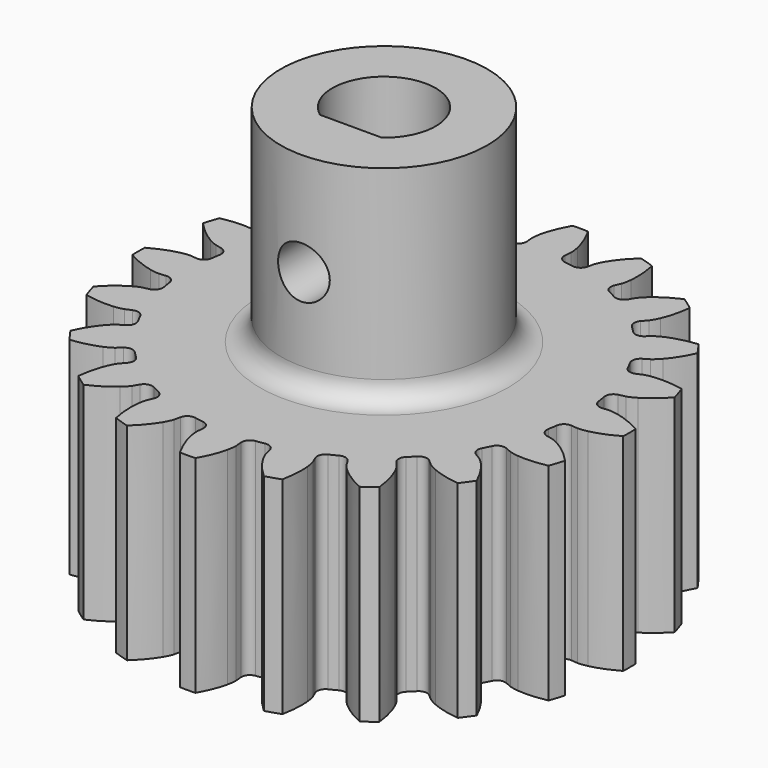
from build123d import *

# Parameters (mm, degrees)
PAD_DEPTH         = 10
SKETCH_R          = 5
PAD001_DEPTH      = 10
POCKET_DEPTH      = 10.001
POCKET_DEPTH_BACK = 10.001
SKETCH002_R       = 1.25
POCKET001_DEPTH   = 11.882183
SKETCH003_R       = 1.25
POCKET002_DEPTH   = 11.882183
FILLET_R          = 1


with BuildPart() as part:
    # InvoluteGear → Pad (new body)
    with BuildSketch(Plane.XY):
        with BuildLine():
            Line((9.803716, -0.918776), (10.123763, -0.947956))
            add(Edge.make_bspline(
                [(10.123763, -0.947956), (10.174775, -0.949586), (10.328324, -0.948261), (10.584514, -0.892793)],
                knots=[0, 0, 0, 0, 1, 1, 1, 1], degree=3))
            add(Edge.make_bspline(
                [(10.584514, -0.892793), (10.890973, -0.82542), (11.331989, -0.681194), (11.875271, -0.374725)],
                knots=[0, 0, 0, 0, 1, 1, 1, 1], degree=3))
            ThreePointArc((11.875271, -0.374725), (11.881183, 0), (11.875271, 0.374725))
            add(Edge.make_bspline(
                [(11.875271, 0.374725), (11.331989, 0.681194), (10.890973, 0.82542), (10.584514, 0.892793)],
                knots=[0, 0, 0, 0, 1, 1, 1, 1], degree=3))
            add(Edge.make_bspline(
                [(10.584514, 0.892793), (10.328324, 0.948261), (10.174775, 0.949586), (10.123763, 0.947956)],
                knots=[0, 0, 0, 0, 1, 1, 1, 1], degree=3))
            Line((10.123763, 0.947956), (9.803716, 0.918776))
            ThreePointArc((9.803716, 0.918776), (9.514111, 1.004812), (9.364631, 1.267355))
            ThreePointArc((9.364631, 1.267355), (9.333655, 1.478306), (9.297927, 1.688504))
            ThreePointArc((9.297927, 1.688504), (9.358961, 1.984389), (9.607806, 2.155707))
            Line((9.607806, 2.155707), (9.921205, 2.226855))
            add(Edge.make_bspline(
                [(9.921205, 2.226855), (9.970225, 2.241068), (10.115849, 2.289777), (10.342359, 2.421698)],
                knots=[0, 0, 0, 0, 1, 1, 1, 1], degree=3))
            add(Edge.make_bspline(
                [(10.342359, 2.421698), (10.613, 2.580475), (10.987862, 2.853923), (11.40985, 3.313276)],
                knots=[0, 0, 0, 0, 1, 1, 1, 1], degree=3))
            ThreePointArc((11.40985, 3.313276), (11.299676, 3.671487), (11.178258, 4.026045))
            add(Edge.make_bspline(
                [(11.178258, 4.026045), (10.566861, 4.149631), (10.102862, 4.150517), (9.790583, 4.119891)],
                knots=[0, 0, 0, 0, 1, 1, 1, 1], degree=3))
            add(Edge.make_bspline(
                [(9.790583, 4.119891), (9.529791, 4.093478), (9.383348, 4.047289), (9.335336, 4.029975)],
                knots=[0, 0, 0, 0, 1, 1, 1, 1], degree=3))
            Line((9.335336, 4.029975), (9.039971, 3.903323))
            ThreePointArc((9.039971, 3.903323), (8.737953, 3.895655), (8.514659, 4.099157))
            ThreePointArc((8.514659, 4.099157), (8.420012, 4.29021), (8.321078, 4.47908))
            ThreePointArc((8.321078, 4.47908), (8.287691, 4.779344), (8.471416, 5.019174))
            Line((8.471416, 5.019174), (8.747491, 5.183686))
            add(Edge.make_bspline(
                [(8.747491, 5.183686), (8.789719, 5.212351), (8.913164, 5.303677), (9.087822, 5.499137)],
                knots=[0, 0, 0, 0, 1, 1, 1, 1], degree=3))
            add(Edge.make_bspline(
                [(9.087822, 5.499137), (9.296152, 5.733775), (9.568167, 6.109679), (9.827554, 6.67695)],
                knots=[0, 0, 0, 0, 1, 1, 1, 1], degree=3))
            ThreePointArc((9.827554, 6.67695), (9.612079, 6.983584), (9.387038, 7.283268))
            add(Edge.make_bspline(
                [(9.387038, 7.283268), (8.767376, 7.211873), (8.325813, 7.069332), (8.038281, 6.943706)],
                knots=[0, 0, 0, 0, 1, 1, 1, 1], degree=3))
            add(Edge.make_bspline(
                [(8.038281, 6.943706), (7.798416, 6.837996), (7.673413, 6.748814), (7.633102, 6.717511)],
                knots=[0, 0, 0, 0, 1, 1, 1, 1], degree=3))
            Line((7.633102, 6.717511), (7.39133, 6.505785))
            ThreePointArc((7.39133, 6.505785), (7.106464, 6.405164), (6.831213, 6.529704))
            ThreePointArc((6.831213, 6.529704), (6.682159, 6.682159), (6.529704, 6.831213))
            ThreePointArc((6.529704, 6.831213), (6.405164, 7.106464), (6.505785, 7.39133))
            Line((6.505785, 7.39133), (6.717511, 7.633102))
            add(Edge.make_bspline(
                [(6.717511, 7.633102), (6.748814, 7.673413), (6.837996, 7.798416), (6.943706, 8.038281)],
                knots=[0, 0, 0, 0, 1, 1, 1, 1], degree=3))
            add(Edge.make_bspline(
                [(6.943706, 8.038281), (7.069332, 8.325813), (7.211873, 8.767376), (7.283268, 9.387038)],
                knots=[0, 0, 0, 0, 1, 1, 1, 1], degree=3))
            ThreePointArc((7.283268, 9.387038), (6.983584, 9.612079), (6.67695, 9.827554))
            add(Edge.make_bspline(
                [(6.67695, 9.827554), (6.109679, 9.568167), (5.733775, 9.296152), (5.499137, 9.087822)],
                knots=[0, 0, 0, 0, 1, 1, 1, 1], degree=3))
            add(Edge.make_bspline(
                [(5.499137, 9.087822), (5.303677, 8.913164), (5.212351, 8.789719), (5.183686, 8.747491)],
                knots=[0, 0, 0, 0, 1, 1, 1, 1], degree=3))
            Line((5.183686, 8.747491), (5.019174, 8.471416))
            ThreePointArc((5.019174, 8.471416), (4.779344, 8.287691), (4.47908, 8.321078))
            ThreePointArc((4.47908, 8.321078), (4.29021, 8.420012), (4.099157, 8.514659))
            ThreePointArc((4.099157, 8.514659), (3.895655, 8.737953), (3.903323, 9.039971))
            Line((3.903323, 9.039971), (4.029975, 9.335336))
            add(Edge.make_bspline(
                [(4.029975, 9.335336), (4.047289, 9.383348), (4.093478, 9.529791), (4.119891, 9.790583)],
                knots=[0, 0, 0, 0, 1, 1, 1, 1], degree=3))
            add(Edge.make_bspline(
                [(4.119891, 9.790583), (4.150517, 10.102862), (4.149631, 10.566861), (4.026045, 11.178258)],
                knots=[0, 0, 0, 0, 1, 1, 1, 1], degree=3))
            ThreePointArc((4.026045, 11.178258), (3.671487, 11.299676), (3.313276, 11.40985))
            add(Edge.make_bspline(
                [(3.313276, 11.40985), (2.853923, 10.987862), (2.580475, 10.613), (2.421698, 10.342359)],
                knots=[0, 0, 0, 0, 1, 1, 1, 1], degree=3))
            add(Edge.make_bspline(
                [(2.421698, 10.342359), (2.289777, 10.115849), (2.241068, 9.970225), (2.226855, 9.921205)],
                knots=[0, 0, 0, 0, 1, 1, 1, 1], degree=3))
            Line((2.226855, 9.921205), (2.155707, 9.607806))
            ThreePointArc((2.155707, 9.607806), (1.984389, 9.358961), (1.688504, 9.297927))
            ThreePointArc((1.688504, 9.297927), (1.478306, 9.333655), (1.267355, 9.364631))
            ThreePointArc((1.267355, 9.364631), (1.004812, 9.514111), (0.918776, 9.803716))
            Line((0.918776, 9.803716), (0.947956, 10.123763))
            add(Edge.make_bspline(
                [(0.947956, 10.123763), (0.949586, 10.174775), (0.948261, 10.328324), (0.892793, 10.584514)],
                knots=[0, 0, 0, 0, 1, 1, 1, 1], degree=3))
            add(Edge.make_bspline(
                [(0.892793, 10.584514), (0.82542, 10.890973), (0.681194, 11.331989), (0.374725, 11.875271)],
                knots=[0, 0, 0, 0, 1, 1, 1, 1], degree=3))
            ThreePointArc((0.374725, 11.875271), (0, 11.881183), (-0.374725, 11.875271))
            add(Edge.make_bspline(
                [(-0.374725, 11.875271), (-0.681194, 11.331989), (-0.82542, 10.890973), (-0.892793, 10.584514)],
                knots=[0, 0, 0, 0, 1, 1, 1, 1], degree=3))
            add(Edge.make_bspline(
                [(-0.892793, 10.584514), (-0.948261, 10.328324), (-0.949586, 10.174775), (-0.947956, 10.123763)],
                knots=[0, 0, 0, 0, 1, 1, 1, 1], degree=3))
            Line((-0.947956, 10.123763), (-0.918776, 9.803716))
            ThreePointArc((-0.918776, 9.803716), (-1.004812, 9.514111), (-1.267355, 9.364631))
            ThreePointArc((-1.267355, 9.364631), (-1.478306, 9.333655), (-1.688504, 9.297927))
            ThreePointArc((-1.688504, 9.297927), (-1.984389, 9.358961), (-2.155707, 9.607806))
            Line((-2.155707, 9.607806), (-2.226855, 9.921205))
            add(Edge.make_bspline(
                [(-2.226855, 9.921205), (-2.241068, 9.970225), (-2.289777, 10.115849), (-2.421698, 10.342359)],
                knots=[0, 0, 0, 0, 1, 1, 1, 1], degree=3))
            add(Edge.make_bspline(
                [(-2.421698, 10.342359), (-2.580475, 10.613), (-2.853923, 10.987862), (-3.313276, 11.40985)],
                knots=[0, 0, 0, 0, 1, 1, 1, 1], degree=3))
            ThreePointArc((-3.313276, 11.40985), (-3.671487, 11.299676), (-4.026045, 11.178258))
            add(Edge.make_bspline(
                [(-4.026045, 11.178258), (-4.149631, 10.566861), (-4.150517, 10.102862), (-4.119891, 9.790583)],
                knots=[0, 0, 0, 0, 1, 1, 1, 1], degree=3))
            add(Edge.make_bspline(
                [(-4.119891, 9.790583), (-4.093478, 9.529791), (-4.047289, 9.383348), (-4.029975, 9.335336)],
                knots=[0, 0, 0, 0, 1, 1, 1, 1], degree=3))
            Line((-4.029975, 9.335336), (-3.903323, 9.039971))
            ThreePointArc((-3.903323, 9.039971), (-3.895655, 8.737953), (-4.099157, 8.514659))
            ThreePointArc((-4.099157, 8.514659), (-4.29021, 8.420012), (-4.47908, 8.321078))
            ThreePointArc((-4.47908, 8.321078), (-4.779344, 8.287691), (-5.019174, 8.471416))
            Line((-5.019174, 8.471416), (-5.183686, 8.747491))
            add(Edge.make_bspline(
                [(-5.183686, 8.747491), (-5.212351, 8.789719), (-5.303677, 8.913164), (-5.499137, 9.087822)],
                knots=[0, 0, 0, 0, 1, 1, 1, 1], degree=3))
            add(Edge.make_bspline(
                [(-5.499137, 9.087822), (-5.733775, 9.296152), (-6.109679, 9.568167), (-6.67695, 9.827554)],
                knots=[0, 0, 0, 0, 1, 1, 1, 1], degree=3))
            ThreePointArc((-6.67695, 9.827554), (-6.983584, 9.612079), (-7.283268, 9.387038))
            add(Edge.make_bspline(
                [(-7.283268, 9.387038), (-7.211873, 8.767376), (-7.069332, 8.325813), (-6.943706, 8.038281)],
                knots=[0, 0, 0, 0, 1, 1, 1, 1], degree=3))
            add(Edge.make_bspline(
                [(-6.943706, 8.038281), (-6.837996, 7.798416), (-6.748814, 7.673413), (-6.717511, 7.633102)],
                knots=[0, 0, 0, 0, 1, 1, 1, 1], degree=3))
            Line((-6.717511, 7.633102), (-6.505785, 7.39133))
            ThreePointArc((-6.505785, 7.39133), (-6.405164, 7.106464), (-6.529704, 6.831213))
            ThreePointArc((-6.529704, 6.831213), (-6.682159, 6.682159), (-6.831213, 6.529704))
            ThreePointArc((-6.831213, 6.529704), (-7.106464, 6.405164), (-7.39133, 6.505785))
            Line((-7.39133, 6.505785), (-7.633102, 6.717511))
            add(Edge.make_bspline(
                [(-7.633102, 6.717511), (-7.673413, 6.748814), (-7.798416, 6.837996), (-8.038281, 6.943706)],
                knots=[0, 0, 0, 0, 1, 1, 1, 1], degree=3))
            add(Edge.make_bspline(
                [(-8.038281, 6.943706), (-8.325813, 7.069332), (-8.767376, 7.211873), (-9.387038, 7.283268)],
                knots=[0, 0, 0, 0, 1, 1, 1, 1], degree=3))
            ThreePointArc((-9.387038, 7.283268), (-9.612079, 6.983584), (-9.827554, 6.67695))
            add(Edge.make_bspline(
                [(-9.827554, 6.67695), (-9.568167, 6.109679), (-9.296152, 5.733775), (-9.087822, 5.499137)],
                knots=[0, 0, 0, 0, 1, 1, 1, 1], degree=3))
            add(Edge.make_bspline(
                [(-9.087822, 5.499137), (-8.913164, 5.303677), (-8.789719, 5.212351), (-8.747491, 5.183686)],
                knots=[0, 0, 0, 0, 1, 1, 1, 1], degree=3))
            Line((-8.747491, 5.183686), (-8.471416, 5.019174))
            ThreePointArc((-8.471416, 5.019174), (-8.287691, 4.779344), (-8.321078, 4.47908))
            ThreePointArc((-8.321078, 4.47908), (-8.420012, 4.29021), (-8.514659, 4.099157))
            ThreePointArc((-8.514659, 4.099157), (-8.737953, 3.895655), (-9.039971, 3.903323))
            Line((-9.039971, 3.903323), (-9.335336, 4.029975))
            add(Edge.make_bspline(
                [(-9.335336, 4.029975), (-9.383348, 4.047289), (-9.529791, 4.093478), (-9.790583, 4.119891)],
                knots=[0, 0, 0, 0, 1, 1, 1, 1], degree=3))
            add(Edge.make_bspline(
                [(-9.790583, 4.119891), (-10.102862, 4.150517), (-10.566861, 4.149631), (-11.178258, 4.026045)],
                knots=[0, 0, 0, 0, 1, 1, 1, 1], degree=3))
            ThreePointArc((-11.178258, 4.026045), (-11.299676, 3.671487), (-11.40985, 3.313276))
            add(Edge.make_bspline(
                [(-11.40985, 3.313276), (-10.987862, 2.853923), (-10.613, 2.580475), (-10.342359, 2.421698)],
                knots=[0, 0, 0, 0, 1, 1, 1, 1], degree=3))
            add(Edge.make_bspline(
                [(-10.342359, 2.421698), (-10.115849, 2.289777), (-9.970225, 2.241068), (-9.921205, 2.226855)],
                knots=[0, 0, 0, 0, 1, 1, 1, 1], degree=3))
            Line((-9.921205, 2.226855), (-9.607806, 2.155707))
            ThreePointArc((-9.607806, 2.155707), (-9.358961, 1.984389), (-9.297927, 1.688504))
            ThreePointArc((-9.297927, 1.688504), (-9.333655, 1.478306), (-9.364631, 1.267355))
            ThreePointArc((-9.364631, 1.267355), (-9.514111, 1.004812), (-9.803716, 0.918776))
            Line((-9.803716, 0.918776), (-10.123763, 0.947956))
            add(Edge.make_bspline(
                [(-10.123763, 0.947956), (-10.174775, 0.949586), (-10.328324, 0.948261), (-10.584514, 0.892793)],
                knots=[0, 0, 0, 0, 1, 1, 1, 1], degree=3))
            add(Edge.make_bspline(
                [(-10.584514, 0.892793), (-10.890973, 0.82542), (-11.331989, 0.681194), (-11.875271, 0.374725)],
                knots=[0, 0, 0, 0, 1, 1, 1, 1], degree=3))
            ThreePointArc((-11.875271, 0.374725), (-11.881183, 0), (-11.875271, -0.374725))
            add(Edge.make_bspline(
                [(-11.875271, -0.374725), (-11.331989, -0.681194), (-10.890973, -0.82542), (-10.584514, -0.892793)],
                knots=[0, 0, 0, 0, 1, 1, 1, 1], degree=3))
            add(Edge.make_bspline(
                [(-10.584514, -0.892793), (-10.328324, -0.948261), (-10.174775, -0.949586), (-10.123763, -0.947956)],
                knots=[0, 0, 0, 0, 1, 1, 1, 1], degree=3))
            Line((-10.123763, -0.947956), (-9.803716, -0.918776))
            ThreePointArc((-9.803716, -0.918776), (-9.514111, -1.004812), (-9.364631, -1.267355))
            ThreePointArc((-9.364631, -1.267355), (-9.333655, -1.478306), (-9.297927, -1.688504))
            ThreePointArc((-9.297927, -1.688504), (-9.358961, -1.984389), (-9.607806, -2.155707))
            Line((-9.607806, -2.155707), (-9.921205, -2.226855))
            add(Edge.make_bspline(
                [(-9.921205, -2.226855), (-9.970225, -2.241068), (-10.115849, -2.289777), (-10.342359, -2.421698)],
                knots=[0, 0, 0, 0, 1, 1, 1, 1], degree=3))
            add(Edge.make_bspline(
                [(-10.342359, -2.421698), (-10.613, -2.580475), (-10.987862, -2.853923), (-11.40985, -3.313276)],
                knots=[0, 0, 0, 0, 1, 1, 1, 1], degree=3))
            ThreePointArc((-11.40985, -3.313276), (-11.299676, -3.671487), (-11.178258, -4.026045))
            add(Edge.make_bspline(
                [(-11.178258, -4.026045), (-10.566861, -4.149631), (-10.102862, -4.150517), (-9.790583, -4.119891)],
                knots=[0, 0, 0, 0, 1, 1, 1, 1], degree=3))
            add(Edge.make_bspline(
                [(-9.790583, -4.119891), (-9.529791, -4.093478), (-9.383348, -4.047289), (-9.335336, -4.029975)],
                knots=[0, 0, 0, 0, 1, 1, 1, 1], degree=3))
            Line((-9.335336, -4.029975), (-9.039971, -3.903323))
            ThreePointArc((-9.039971, -3.903323), (-8.737953, -3.895655), (-8.514659, -4.099157))
            ThreePointArc((-8.514659, -4.099157), (-8.420012, -4.29021), (-8.321078, -4.47908))
            ThreePointArc((-8.321078, -4.47908), (-8.287691, -4.779344), (-8.471416, -5.019174))
            Line((-8.471416, -5.019174), (-8.747491, -5.183686))
            add(Edge.make_bspline(
                [(-8.747491, -5.183686), (-8.789719, -5.212351), (-8.913164, -5.303677), (-9.087822, -5.499137)],
                knots=[0, 0, 0, 0, 1, 1, 1, 1], degree=3))
            add(Edge.make_bspline(
                [(-9.087822, -5.499137), (-9.296152, -5.733775), (-9.568167, -6.109679), (-9.827554, -6.67695)],
                knots=[0, 0, 0, 0, 1, 1, 1, 1], degree=3))
            ThreePointArc((-9.827554, -6.67695), (-9.612079, -6.983584), (-9.387038, -7.283268))
            add(Edge.make_bspline(
                [(-9.387038, -7.283268), (-8.767376, -7.211873), (-8.325813, -7.069332), (-8.038281, -6.943706)],
                knots=[0, 0, 0, 0, 1, 1, 1, 1], degree=3))
            add(Edge.make_bspline(
                [(-8.038281, -6.943706), (-7.798416, -6.837996), (-7.673413, -6.748814), (-7.633102, -6.717511)],
                knots=[0, 0, 0, 0, 1, 1, 1, 1], degree=3))
            Line((-7.633102, -6.717511), (-7.39133, -6.505785))
            ThreePointArc((-7.39133, -6.505785), (-7.106464, -6.405164), (-6.831213, -6.529704))
            ThreePointArc((-6.831213, -6.529704), (-6.682159, -6.682159), (-6.529704, -6.831213))
            ThreePointArc((-6.529704, -6.831213), (-6.405164, -7.106464), (-6.505785, -7.39133))
            Line((-6.505785, -7.39133), (-6.717511, -7.633102))
            add(Edge.make_bspline(
                [(-6.717511, -7.633102), (-6.748814, -7.673413), (-6.837996, -7.798416), (-6.943706, -8.038281)],
                knots=[0, 0, 0, 0, 1, 1, 1, 1], degree=3))
            add(Edge.make_bspline(
                [(-6.943706, -8.038281), (-7.069332, -8.325813), (-7.211873, -8.767376), (-7.283268, -9.387038)],
                knots=[0, 0, 0, 0, 1, 1, 1, 1], degree=3))
            ThreePointArc((-7.283268, -9.387038), (-6.983584, -9.612079), (-6.67695, -9.827554))
            add(Edge.make_bspline(
                [(-6.67695, -9.827554), (-6.109679, -9.568167), (-5.733775, -9.296152), (-5.499137, -9.087822)],
                knots=[0, 0, 0, 0, 1, 1, 1, 1], degree=3))
            add(Edge.make_bspline(
                [(-5.499137, -9.087822), (-5.303677, -8.913164), (-5.212351, -8.789719), (-5.183686, -8.747491)],
                knots=[0, 0, 0, 0, 1, 1, 1, 1], degree=3))
            Line((-5.183686, -8.747491), (-5.019174, -8.471416))
            ThreePointArc((-5.019174, -8.471416), (-4.779344, -8.287691), (-4.47908, -8.321078))
            ThreePointArc((-4.47908, -8.321078), (-4.29021, -8.420012), (-4.099157, -8.514659))
            ThreePointArc((-4.099157, -8.514659), (-3.895655, -8.737953), (-3.903323, -9.039971))
            Line((-3.903323, -9.039971), (-4.029975, -9.335336))
            add(Edge.make_bspline(
                [(-4.029975, -9.335336), (-4.047289, -9.383348), (-4.093478, -9.529791), (-4.119891, -9.790583)],
                knots=[0, 0, 0, 0, 1, 1, 1, 1], degree=3))
            add(Edge.make_bspline(
                [(-4.119891, -9.790583), (-4.150517, -10.102862), (-4.149631, -10.566861), (-4.026045, -11.178258)],
                knots=[0, 0, 0, 0, 1, 1, 1, 1], degree=3))
            ThreePointArc((-4.026045, -11.178258), (-3.671487, -11.299676), (-3.313276, -11.40985))
            add(Edge.make_bspline(
                [(-3.313276, -11.40985), (-2.853923, -10.987862), (-2.580475, -10.613), (-2.421698, -10.342359)],
                knots=[0, 0, 0, 0, 1, 1, 1, 1], degree=3))
            add(Edge.make_bspline(
                [(-2.421698, -10.342359), (-2.289777, -10.115849), (-2.241068, -9.970225), (-2.226855, -9.921205)],
                knots=[0, 0, 0, 0, 1, 1, 1, 1], degree=3))
            Line((-2.226855, -9.921205), (-2.155707, -9.607806))
            ThreePointArc((-2.155707, -9.607806), (-1.984389, -9.358961), (-1.688504, -9.297927))
            ThreePointArc((-1.688504, -9.297927), (-1.478306, -9.333655), (-1.267355, -9.364631))
            ThreePointArc((-1.267355, -9.364631), (-1.004812, -9.514111), (-0.918776, -9.803716))
            Line((-0.918776, -9.803716), (-0.947956, -10.123763))
            add(Edge.make_bspline(
                [(-0.947956, -10.123763), (-0.949586, -10.174775), (-0.948261, -10.328324), (-0.892793, -10.584514)],
                knots=[0, 0, 0, 0, 1, 1, 1, 1], degree=3))
            add(Edge.make_bspline(
                [(-0.892793, -10.584514), (-0.82542, -10.890973), (-0.681194, -11.331989), (-0.374725, -11.875271)],
                knots=[0, 0, 0, 0, 1, 1, 1, 1], degree=3))
            ThreePointArc((-0.374725, -11.875271), (0, -11.881183), (0.374725, -11.875271))
            add(Edge.make_bspline(
                [(0.374725, -11.875271), (0.681194, -11.331989), (0.82542, -10.890973), (0.892793, -10.584514)],
                knots=[0, 0, 0, 0, 1, 1, 1, 1], degree=3))
            add(Edge.make_bspline(
                [(0.892793, -10.584514), (0.948261, -10.328324), (0.949586, -10.174775), (0.947956, -10.123763)],
                knots=[0, 0, 0, 0, 1, 1, 1, 1], degree=3))
            Line((0.947956, -10.123763), (0.918776, -9.803716))
            ThreePointArc((0.918776, -9.803716), (1.004812, -9.514111), (1.267355, -9.364631))
            ThreePointArc((1.267355, -9.364631), (1.478306, -9.333655), (1.688504, -9.297927))
            ThreePointArc((1.688504, -9.297927), (1.984389, -9.358961), (2.155707, -9.607806))
            Line((2.155707, -9.607806), (2.226855, -9.921205))
            add(Edge.make_bspline(
                [(2.226855, -9.921205), (2.241068, -9.970225), (2.289777, -10.115849), (2.421698, -10.342359)],
                knots=[0, 0, 0, 0, 1, 1, 1, 1], degree=3))
            add(Edge.make_bspline(
                [(2.421698, -10.342359), (2.580475, -10.613), (2.853923, -10.987862), (3.313276, -11.40985)],
                knots=[0, 0, 0, 0, 1, 1, 1, 1], degree=3))
            ThreePointArc((3.313276, -11.40985), (3.671487, -11.299676), (4.026045, -11.178258))
            add(Edge.make_bspline(
                [(4.026045, -11.178258), (4.149631, -10.566861), (4.150517, -10.102862), (4.119891, -9.790583)],
                knots=[0, 0, 0, 0, 1, 1, 1, 1], degree=3))
            add(Edge.make_bspline(
                [(4.119891, -9.790583), (4.093478, -9.529791), (4.047289, -9.383348), (4.029975, -9.335336)],
                knots=[0, 0, 0, 0, 1, 1, 1, 1], degree=3))
            Line((4.029975, -9.335336), (3.903323, -9.039971))
            ThreePointArc((3.903323, -9.039971), (3.895655, -8.737953), (4.099157, -8.514659))
            ThreePointArc((4.099157, -8.514659), (4.29021, -8.420012), (4.47908, -8.321078))
            ThreePointArc((4.47908, -8.321078), (4.779344, -8.287691), (5.019174, -8.471416))
            Line((5.019174, -8.471416), (5.183686, -8.747491))
            add(Edge.make_bspline(
                [(5.183686, -8.747491), (5.212351, -8.789719), (5.303677, -8.913164), (5.499137, -9.087822)],
                knots=[0, 0, 0, 0, 1, 1, 1, 1], degree=3))
            add(Edge.make_bspline(
                [(5.499137, -9.087822), (5.733775, -9.296152), (6.109679, -9.568167), (6.67695, -9.827554)],
                knots=[0, 0, 0, 0, 1, 1, 1, 1], degree=3))
            ThreePointArc((6.67695, -9.827554), (6.983584, -9.612079), (7.283268, -9.387038))
            add(Edge.make_bspline(
                [(7.283268, -9.387038), (7.211873, -8.767376), (7.069332, -8.325813), (6.943706, -8.038281)],
                knots=[0, 0, 0, 0, 1, 1, 1, 1], degree=3))
            add(Edge.make_bspline(
                [(6.943706, -8.038281), (6.837996, -7.798416), (6.748814, -7.673413), (6.717511, -7.633102)],
                knots=[0, 0, 0, 0, 1, 1, 1, 1], degree=3))
            Line((6.717511, -7.633102), (6.505785, -7.39133))
            ThreePointArc((6.505785, -7.39133), (6.405164, -7.106464), (6.529704, -6.831213))
            ThreePointArc((6.529704, -6.831213), (6.682159, -6.682159), (6.831213, -6.529704))
            ThreePointArc((6.831213, -6.529704), (7.106464, -6.405164), (7.39133, -6.505785))
            Line((7.39133, -6.505785), (7.633102, -6.717511))
            add(Edge.make_bspline(
                [(7.633102, -6.717511), (7.673413, -6.748814), (7.798416, -6.837996), (8.038281, -6.943706)],
                knots=[0, 0, 0, 0, 1, 1, 1, 1], degree=3))
            add(Edge.make_bspline(
                [(8.038281, -6.943706), (8.325813, -7.069332), (8.767376, -7.211873), (9.387038, -7.283268)],
                knots=[0, 0, 0, 0, 1, 1, 1, 1], degree=3))
            ThreePointArc((9.387038, -7.283268), (9.612079, -6.983584), (9.827554, -6.67695))
            add(Edge.make_bspline(
                [(9.827554, -6.67695), (9.568167, -6.109679), (9.296152, -5.733775), (9.087822, -5.499137)],
                knots=[0, 0, 0, 0, 1, 1, 1, 1], degree=3))
            add(Edge.make_bspline(
                [(9.087822, -5.499137), (8.913164, -5.303677), (8.789719, -5.212351), (8.747491, -5.183686)],
                knots=[0, 0, 0, 0, 1, 1, 1, 1], degree=3))
            Line((8.747491, -5.183686), (8.471416, -5.019174))
            ThreePointArc((8.471416, -5.019174), (8.287691, -4.779344), (8.321078, -4.47908))
            ThreePointArc((8.321078, -4.47908), (8.420012, -4.29021), (8.514659, -4.099157))
            ThreePointArc((8.514659, -4.099157), (8.737953, -3.895655), (9.039971, -3.903323))
            Line((9.039971, -3.903323), (9.335336, -4.029975))
            add(Edge.make_bspline(
                [(9.335336, -4.029975), (9.383348, -4.047289), (9.529791, -4.093478), (9.790583, -4.119891)],
                knots=[0, 0, 0, 0, 1, 1, 1, 1], degree=3))
            add(Edge.make_bspline(
                [(9.790583, -4.119891), (10.102862, -4.150517), (10.566861, -4.149631), (11.178258, -4.026045)],
                knots=[0, 0, 0, 0, 1, 1, 1, 1], degree=3))
            ThreePointArc((11.178258, -4.026045), (11.299676, -3.671487), (11.40985, -3.313276))
            add(Edge.make_bspline(
                [(11.40985, -3.313276), (10.987862, -2.853923), (10.613, -2.580475), (10.342359, -2.421698)],
                knots=[0, 0, 0, 0, 1, 1, 1, 1], degree=3))
            add(Edge.make_bspline(
                [(10.342359, -2.421698), (10.115849, -2.289777), (9.970225, -2.241068), (9.921205, -2.226855)],
                knots=[0, 0, 0, 0, 1, 1, 1, 1], degree=3))
            Line((9.921205, -2.226855), (9.607806, -2.155707))
            ThreePointArc((9.607806, -2.155707), (9.358961, -1.984389), (9.297927, -1.688504))
            ThreePointArc((9.297927, -1.688504), (9.333655, -1.478306), (9.364631, -1.267355))
            ThreePointArc((9.364631, -1.267355), (9.514111, -1.004812), (9.803716, -0.918776))
        make_face()
    extrude(amount=-PAD_DEPTH)

    # Sketch → Pad001 (join)
    with BuildSketch(Plane.XY):
        Circle(SKETCH_R)
    extrude(amount=PAD001_DEPTH)

    # Sketch001 → Pocket (cut, two sides)
    with BuildSketch(Plane.XY) as pocket_sk:
        with BuildLine():
            ThreePointArc((1.5, -2), (0, 2.5), (-1.5, -2))
            Line((-1.5, -2), (1.5, -2))
        make_face()
    extrude(amount=-POCKET_DEPTH, mode=Mode.SUBTRACT)
    extrude(pocket_sk.sketch, amount=POCKET_DEPTH_BACK, mode=Mode.SUBTRACT)

    # Sketch002 → Pocket001 (cut, through all)
    with BuildSketch(Plane.XZ):
        with Locations((0, 5)):
            Circle(SKETCH002_R)
    extrude(amount=POCKET001_DEPTH, mode=Mode.SUBTRACT)

    # Sketch003 → Pocket002 (cut, through all)
    with BuildSketch(Plane.YZ):
        with Locations((0, 5)):
            Circle(SKETCH003_R)
    extrude(amount=-POCKET002_DEPTH, mode=Mode.SUBTRACT)

    # Fillet
    fillet_edges = [part.edges().sort_by_distance(p)[0] for p in [
        (-5, 0, 0),
    ]]
    fillet(fillet_edges, radius=FILLET_R)


solid = part.part
